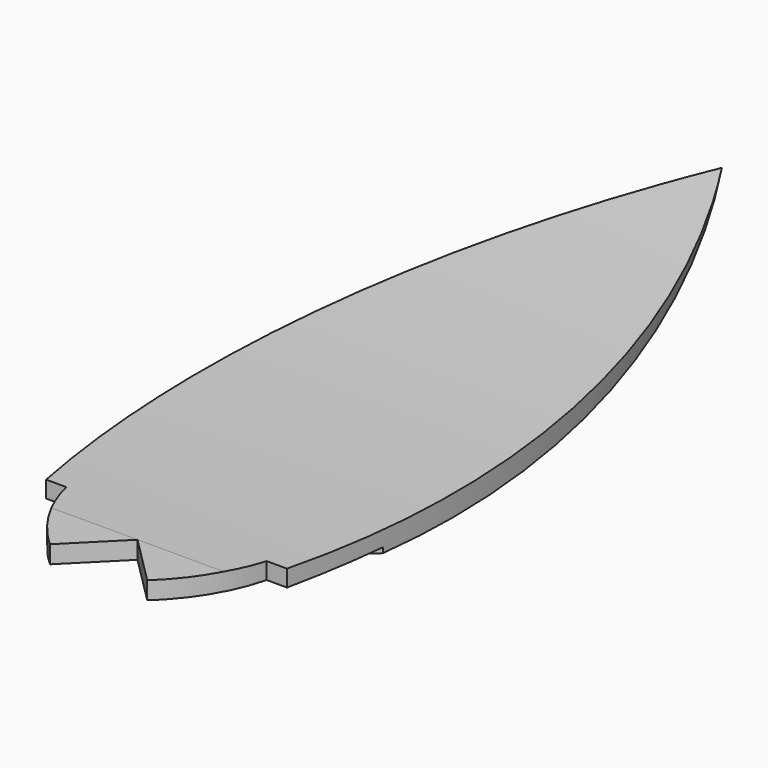
from build123d import *

# Parameters (mm, degrees)
F1_DEPTH  = 121.92
F3_DEPTH  = 282.829943269
F4_W      = 137.4469886072
F4_H      = 60.96
F4_H_2    = 25.5973618478
F5_DEPTH  = 1232.2696308848
F6_W      = 35.4420293589
F6_H      = 60.96
F5_FACE_W = 35.4420293589
F5_FACE_H = 25.5973618478
F7_DEPTH  = 131.2443939971


with BuildPart() as f1:
    # F0 (on Top) → F1 (new body)
    with BuildSketch(Plane.XY):
        with BuildLine():
            Line((0, 1557.528), (0, 97.2259938717))
            Line((0, 97.2259938717), (97.1533879638, 0))
            ThreePointArc((97.1533879638, 0), (161.1479027225, 77.3205102489), (200.2349644899, 169.7648763657))
            Line((200.2349644899, 169.7648763657), (240.7975746215, 169.7648763657))
            ThreePointArc((240.7975746215, 169.7648763657), (255.122674282, 887.0230394729), (0, 1557.528))
        make_face()
    extrude(amount=F1_DEPTH)

    # F2 (on face) → F3 (cut, through all)
    with BuildSketch(Plane(origin=(0, 0, 0), x_dir=(0, -1, 0), z_dir=(-1, 0, 0))):
        with BuildLine():
            Line((-97.2259938717, 121.92), (-1557.528, 121.92))
            ThreePointArc((-1557.528, 121.92), (-828.4837557125, 64.9274989858), (-97.2259938717, 60.96))
            Line((-97.2259938717, 60.96), (-97.2259938717, 121.92))
        make_face()
        with BuildLine():
            ThreePointArc((-97.2259938717, 25.5973618478), (-830.4601765145, 27.0160520849), (-1557.528, 121.92))
            Line((-1557.528, 121.92), (-1557.528, 0))
            Line((-1557.528, 0), (-97.2259938717, 0))
            Line((-97.2259938717, 0), (-97.2259938717, 25.5973618478))
        make_face()
    extrude(amount=-F3_DEPTH, mode=Mode.SUBTRACT)

    # F4 (on face) → F5 (cut, through all)
    with BuildSketch(Plane(origin=(48.6129833707, 48.5766804268, 0), x_dir=(0.7068426085, -0.7073708552, 0), z_dir=(-0.7073708552, -0.7068426085, 0))):
        with Locations((-0.0513401263, 91.44)):
            Rectangle(F4_W, F4_H)
        with Locations((-0.0513401263, 12.7986809239)):
            Rectangle(F4_W, F4_H_2)
    extrude(amount=-F5_DEPTH, mode=Mode.SUBTRACT)

    # F6 (on face) + F5_face (on face) → F7 (cut, through all)
    with BuildSketch(Plane(origin=(48.5404045931, -48.5766804268, 0), x_dir=(-0.7073708552, -0.7068426085, 0), z_dir=(-0.7068426085, 0.7073708552, 0))):
        with Locations((-86.4444898061, 91.44)):
            Rectangle(F6_W, F6_H)
    with BuildSketch(Plane(origin=(109.6887172721, 12.5259682421, 91.44), x_dir=(-0.7073708552, -0.7068426085, 0), z_dir=(-0.7068426085, 0.7073708552, 0))):
        with Locations((0, -78.6413190761)):
            Rectangle(F5_FACE_W, F5_FACE_H)
    extrude(amount=-F7_DEPTH, mode=Mode.SUBTRACT)

    # F8: F1 across face


with BuildPart() as f1_1:
    add(f1.part)
    add(f1.part.mirror(Plane(origin=(0, 690.8470850267, 48.623085259), x_dir=(0, -1, 0), z_dir=(-1, 0, 0))))


solid = f1_1.part
